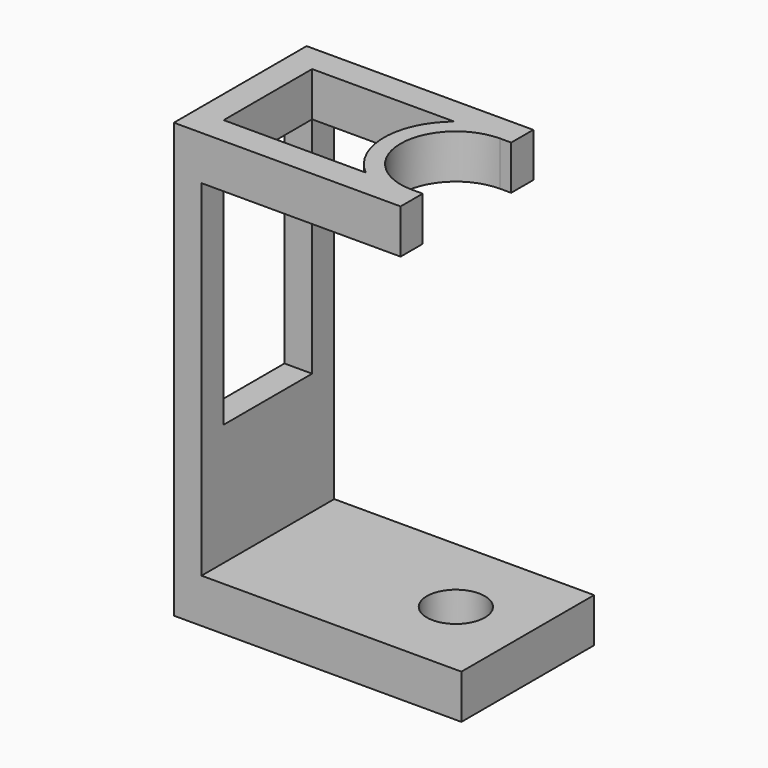
from build123d import *

# Parameters (mm, degrees)
SKETCH011_W     = 30
SKETCH011_H     = 78.5
SKETCH011_W_2   = 20
SKETCH011_H_2   = 40.5
PAD009_DEPTH    = 5
SKETCH008_W     = 30
SKETCH008_H     = 8
PAD008_DEPTH    = 47
SKETCH009_W     = 5
SKETCH009_H     = 8
PAD012_DEPTH    = 36
PAD010_DEPTH    = 8
SKETCH012_R     = 1.5
POCKET004_DEPTH = 6.501
SKETCH015_R     = 5.25
POCKET003_DEPTH = 30.001


with BuildPart() as part:
    # Sketch011 → Pad009 (new body)
    with BuildSketch(Plane.YZ):
        with Locations((10, 9.25)):
            Rectangle(SKETCH011_W, SKETCH011_H)
        with Locations((10, 20.25)):
            Rectangle(SKETCH011_W_2, SKETCH011_H_2, mode=Mode.SUBTRACT)
    extrude(amount=-PAD009_DEPTH)

    # Sketch008 → Pad008 (join)
    with BuildSketch(Plane.YZ):
        with Locations((10, -26)):
            Rectangle(SKETCH008_W, SKETCH008_H)
    extrude(amount=PAD008_DEPTH)

    # Sketch009 → Pad012 (join)
    with BuildSketch(Plane.YZ):
        with Locations((-2.5, 44.5)):
            Rectangle(SKETCH009_W, SKETCH009_H)
        with Locations((22.5, 44.5)):
            Rectangle(SKETCH009_W, SKETCH009_H)
    extrude(amount=PAD012_DEPTH)

    # Sketch010 → Pad010 (join)
    with BuildSketch(Plane.XY.offset(40.5)):
        with BuildLine():
            ThreePointArc((34, 20), (24, 10), (34, 0))
            Line((34, 0), (34, -5))
            Line((34, -5), (31, -5))
            Line((31, -5), (31, -2.649111))
            ThreePointArc((31, 22.649111), (21, 10), (31, -2.649111))
            Line((31, 25), (31, 22.649111))
            Line((34, 25), (31, 25))
            Line((34, 20), (34, 25))
        make_face()
    extrude(amount=PAD010_DEPTH)

    # Sketch012 → Pocket004 (cut, through all)
    with BuildSketch(Plane.YZ.offset(40.5)):
        with Locations((-2.5, 44.5)):
            Circle(SKETCH012_R)
        with Locations((22.5, 44.5)):
            Circle(SKETCH012_R)
    extrude(amount=POCKET004_DEPTH, mode=Mode.SUBTRACT)

    # Sketch015 → Pocket003 (cut, through all)
    with BuildSketch(Plane.XY):
        with Locations((34, 10)):
            Circle(SKETCH015_R)
    extrude(amount=-POCKET003_DEPTH, mode=Mode.SUBTRACT)


solid = part.part
